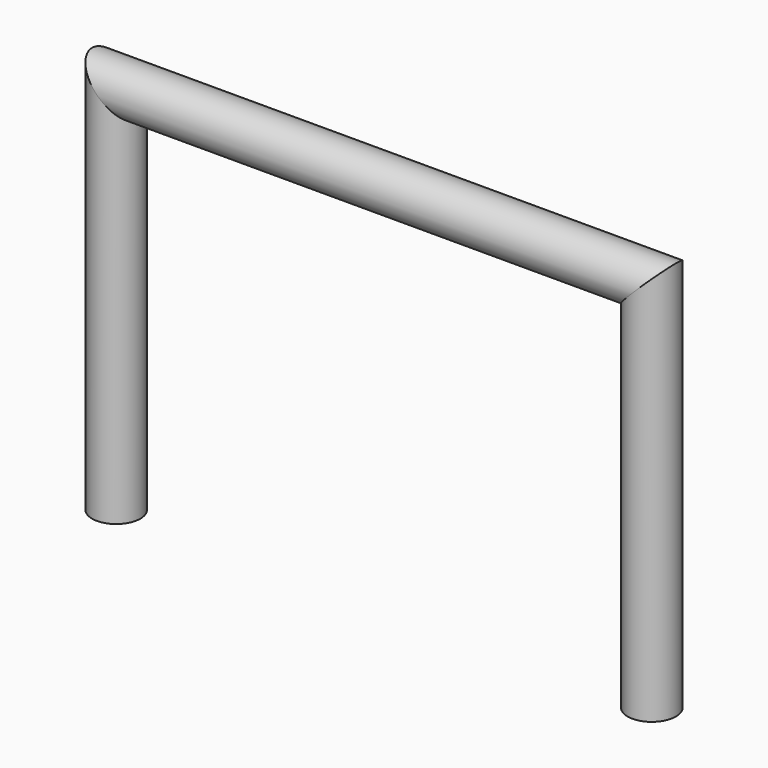
from build123d import *

# Parameters (mm, degrees)
F2_R = 4.5


with BuildPart() as f3:
    # F3: sweep along a path in F0
    with BuildLine(Plane.XZ) as f3_path:
        Line((50, -35), (50, 35))
        Line((50, 35), (-50, 35))
        Line((-50, 35), (-50, -35))
    # F2 (on offset) → F3 (sweep)
    with BuildSketch(Plane.XY.offset(-35)):
        with Locations((-50.0130243599, 0)):
            Circle(F2_R)
    sweep(path=f3_path.line, transition=Transition.RIGHT)


solid = f3.part
